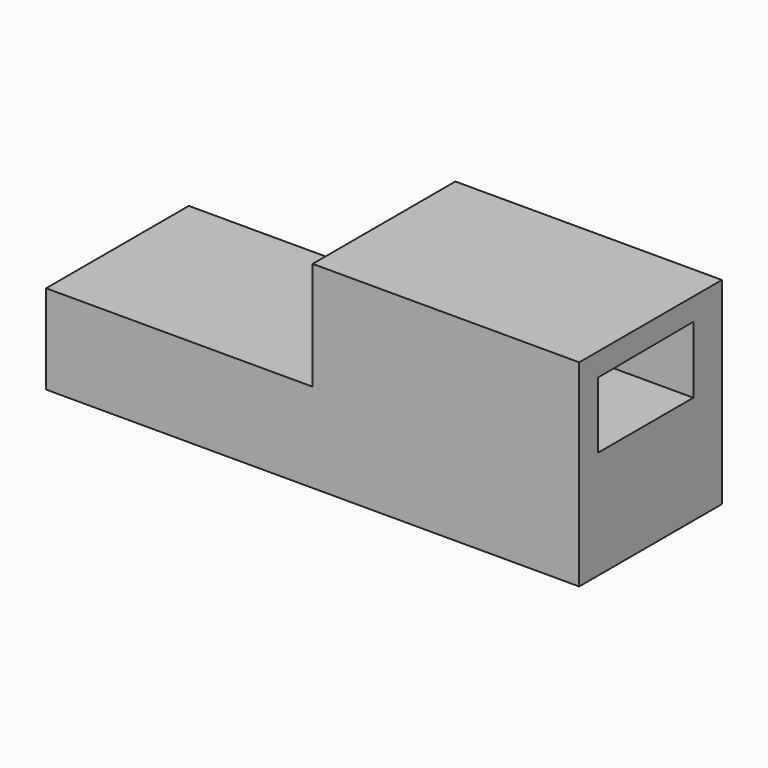
from build123d import *

# Parameters (mm, degrees)
F1_DEPTH = 50.8
F3_DEPTH = 92.51427


with BuildPart() as f1:
    # F0 (on Front) → F1 (new body)
    with BuildSketch(Plane.XZ):
        Polygon((75.910531, 56.202993), (0, 56.202993), (0, 25.4), (-75.910531, 25.4), (-75.910531, 0), (75.910531, 0), align=None)
    extrude(amount=F1_DEPTH)

    # F2 (on Right) → F3 (cut)
    with BuildSketch(Plane.YZ):
        Polygon((-10.17795, 30.816574), (-10.17795, 49.853109), (-44.104453, 49.664631), (-44.104453, 30.816574), align=None)
    extrude(amount=F3_DEPTH, mode=Mode.SUBTRACT)


solid = f1.part
